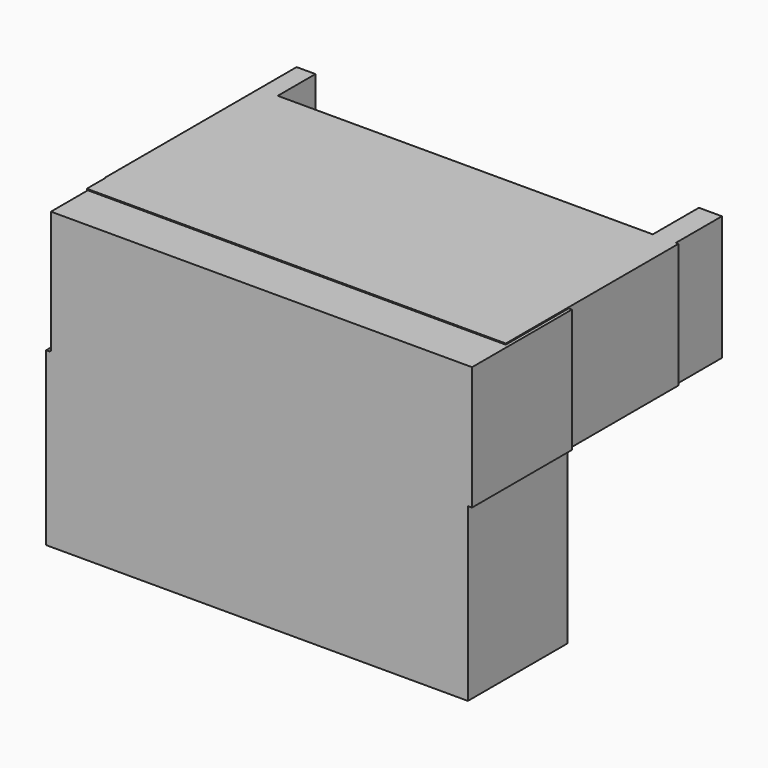
from build123d import *

# Parameters (mm, degrees)
F0_W      = 85.343997
F0_H      = 43.952162
F3_DEPTH  = 25.4
F1_W      = 4.267193
F1_H      = 32.43072
F1_W_2    = 4.693918
F1_H_2    = 33.284161
F4_DEPTH  = 25.4
F2_W      = 4.693918
F2_H      = 33.710879
F2_W_2    = 3.840477
F2_H_2    = 32.857437
F5_DEPTH  = 25.4
F6_W      = 3.840476
F6_H      = 48.646077
F6_W_2    = 4.693918
F6_H_2    = 51.206397
F7_DEPTH  = 25.4
F8_W      = 85.770724
F8_H      = 25.17648
F9_DEPTH  = 25.4
F10_W     = 85.912641
F10_H     = 34.937669
F11_DEPTH = 25.4


with BuildPart() as f3:
    # F0 (on Top) → F3 (new body)
    with BuildSketch(Plane.XY):
        with Locations((-3.30708, 5.97408)):
            Rectangle(F0_W, F0_H)
    extrude(amount=F3_DEPTH)

    # F1 (on Front) → F4 (join)
    with BuildSketch(Plane.XZ):
        with Locations((-43.845478, -16.002001)):
            Rectangle(F1_W, F1_H)
        with Locations((36.591239, -16.64208)):
            Rectangle(F1_W_2, F1_H_2)
    extrude(amount=F4_DEPTH)

    # F2 (on Front) → F5 (join)
    with BuildSketch(Plane.XZ):
        with Locations((36.484562, -16.642081)):
            Rectangle(F2_W, F2_H)
        with Locations((-43.952159, -16.21536)):
            Rectangle(F2_W_2, F2_H_2)
    extrude(amount=F5_DEPTH)

    # F6 (on Top) → F7 (join)
    with BuildSketch(Plane.XY):
        with Locations((-44.165522, 13.22832)):
            Rectangle(F6_W, F6_H)
        with Locations((36.484562, 14.08176)):
            Rectangle(F6_W_2, F6_H_2)
    extrude(amount=F7_DEPTH)

    # F8 (on Front) → F9 (join)
    with BuildSketch(Plane.XZ):
        with Locations((-2.88036, 12.58824)):
            Rectangle(F8_W, F8_H)
    extrude(amount=F9_DEPTH)

    # F10 (on Front) → F11 (join)
    with BuildSketch(Plane.XZ):
        with Locations((-3.794318, -17.468834)):
            Rectangle(F10_W, F10_H)
    extrude(amount=F11_DEPTH)


solid = f3.part
